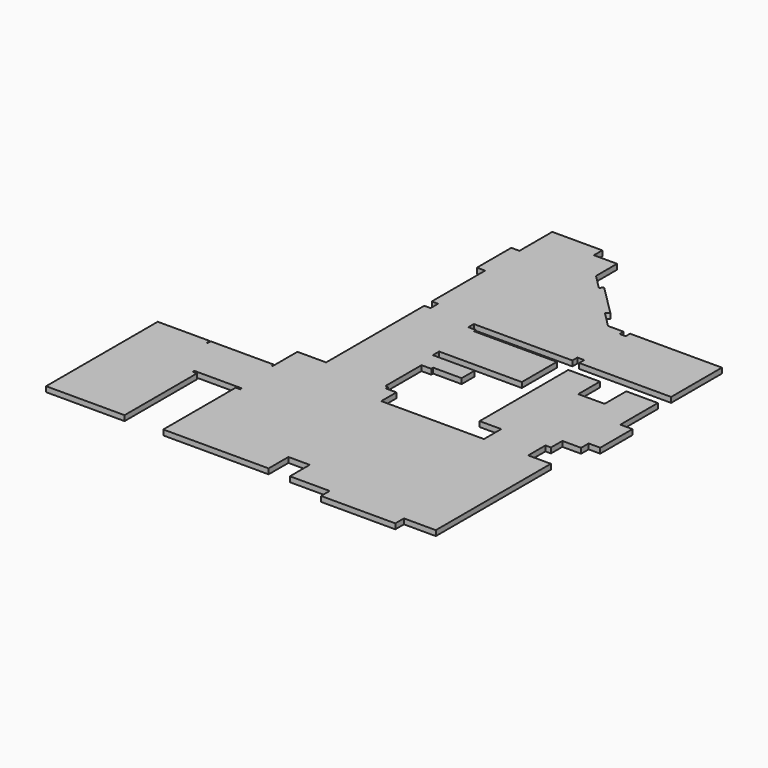
from build123d import *

# Parameters (mm, degrees)
F1_DEPTH = 100


with BuildPart() as f1:
    # F0 (on Top) → F1 (new body)
    with BuildSketch(Plane.XY):
        Polygon((4125, 2990), (4125, 3880), (3525, 3880), (3525, 3365), (3025, 3365), (3025, 3880), (2425, 3880), (2425, 1775), (2835, 1775), (2835, 1365), (885, 1365), (885, 1725), (680, 1725), (680, 1780), (630, 1780), (630, 2640), (815, 2640), (815, 2685), (1355, 2685), (1355, 2995), (560, 2995), (560, 3145), (2130, 3145), (2130, 3975), (560, 3975), (560, 4025), (410, 4025), (410, 4154.999259), (2281.977452, 4154.999259), (2281.977452, 4274.999259), (2411.977452, 4274.999259), (2411.977452, 4154.999259), (4156.977452, 4154.999259), (4156.977452, 5360.569259), (2411.977452, 5360.569259), (2411.977452, 5255.569259), (2296.977452, 5255.569259), (2296.977452, 5350.569259), (2001.977452, 5350.569259), (1712.063671, 5640.48304), (1768.632214, 5697.051582), (1188.804653, 6276.879143), (1132.236111, 6220.3106), (860, 6492.546711), (860, 6992.546711), (420, 6992.546711), (420, 7192.546711), (-530, 7192.546711), (-530, 6412.546711), (-685, 6412.546711), (-685, 5597.546711), (-530, 5597.546711), (-530, 4332.546711), (-410, 4332.546711), (-410, 4155), (-530, 4155), (-530, 1825), (-1075, 1825), (-1075, 1230), (-1090, 1230), (-1090, 1285), (-2290, 1285), (-2290, 1215), (-2305, 1215), (-2305, 1285), (-3295, 1285), (-3295, -1365), (-1805, -1365), (-1805, 355), (-1885, 355), (-1885, 393), (-985, 393), (-985, 355), (-1070, 355), (-1070, -1365), (930, -1365), (930, -895), (1335, -895), (1335, -1365), (2090, -1365), (2090, -1570), (3500, -1570), (3500, -1365), (4105, -1365), (4105, 1365), (3675, 1365), (3675, 1775), (3780, 1775), (3780, 2045), (4135, 2045), (4135, 2225), (4355, 2225), (4355, 2990), align=None)
    extrude(amount=F1_DEPTH)


solid = f1.part
